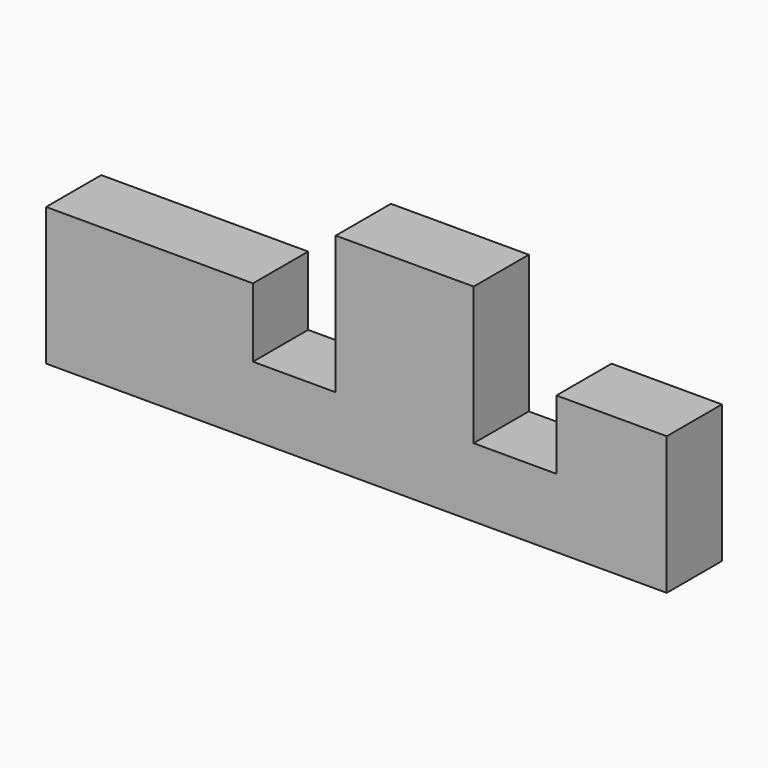
from build123d import *

# Parameters (mm, degrees)
F1_DEPTH = 10


with BuildPart() as f1:
    # F0 (on Front) → F1 (new body)
    with BuildSketch(Plane.XZ):
        Polygon((0, 20), (0, 0), (90, 0), (90, 20), (74, 20), (74, 10), (62, 10), (62, 30), (42, 30), (42, 10), (30, 10), (30, 20), align=None)
        Polygon((0, 20), (0, 0), (90, 0), (90, 20), (74, 20), (74, 10), (62, 10), (62, 30), (42, 30), (42, 10), (30, 10), (30, 20), align=None)
    extrude(amount=F1_DEPTH)


solid = f1.part
